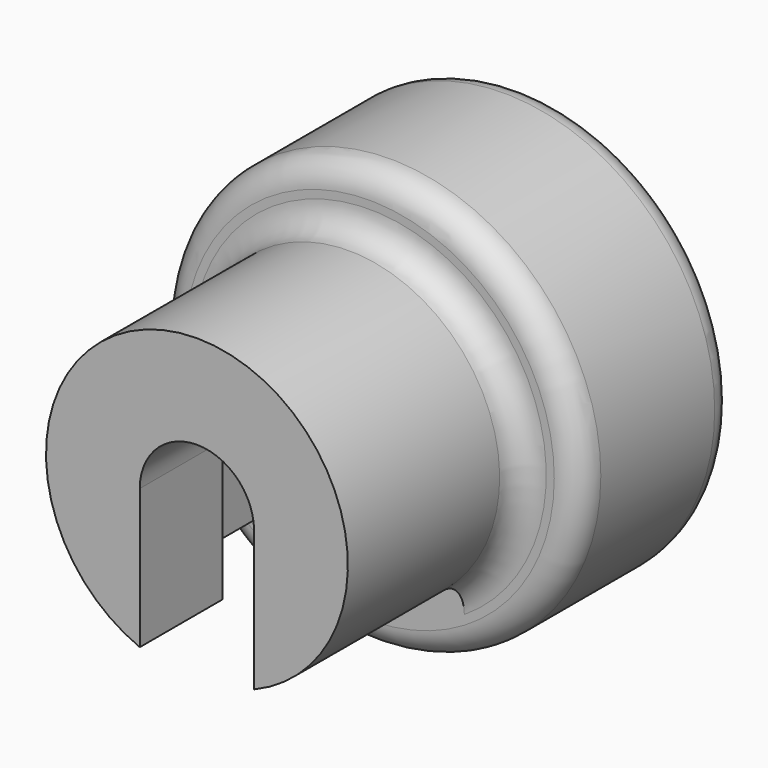
from build123d import *

# Parameters (mm, degrees)
SKETCH067_W     = 20
SKETCH067_H     = 20
PAD025_DEPTH    = 9
SKETCH061_R     = 7
PAD024_DEPTH    = 10
POCKET040_DEPTH = 8
SKETCH063_W     = 8.75
SKETCH063_H     = 5.2
POCKET036_DEPTH = 1
SKETCH060_R     = 3.7
POCKET035_DEPTH = 3
SKETCH059_R     = 1.675
POCKET039_DEPTH = 5
SKETCH068_R     = 16.754851
SKETCH068_R_2   = 9.771783
POCKET041_DEPTH = 20
SKETCH062_R     = 1.7
POCKET042_DEPTH = 20
FILLET008_R     = 1.2
POCKET043_DEPTH = 5.2


with BuildPart() as part:
    # Sketch067 → Pad025 (new body)
    with BuildSketch(Plane.XZ):
        with Locations((-19.773271, -18.660706)):
            Rectangle(SKETCH067_W, SKETCH067_H)
    extrude(amount=PAD025_DEPTH)

    # Sketch061 (on Face6 of Pad025) → Pad024 (join)
    with BuildSketch(Plane.XZ.offset(9)):
        with Locations((-19.773271, -18.660706)):
            Circle(SKETCH061_R)
    extrude(amount=PAD024_DEPTH)

    # Sketch065 (on Face8 of Pad024) → Pocket040 (cut)
    with BuildSketch(Plane.XZ.offset(19)):
        with BuildLine():
            Line((-17.123271, -18.660706), (-17.123271, -31.745383))
            Line((-17.123271, -31.745383), (-22.423271, -31.745383))
            Line((-22.423271, -31.745383), (-22.423271, -18.660706))
            ThreePointArc((-17.123271, -18.660706), (-19.773271, -16.010706), (-22.423271, -18.660706))
        make_face()
    extrude(amount=-POCKET040_DEPTH, mode=Mode.SUBTRACT)

    # Sketch063 (on Face6 of Pocket040) → Pocket036 (cut)
    with BuildSketch(Plane(origin=(0, 0, -28.660706), x_dir=(1, 0, 0), z_dir=(0, 0, -1))):
        with Locations((-19.773271, 11.6)):
            Rectangle(SKETCH063_W, SKETCH063_H)
    extrude(amount=-POCKET036_DEPTH, mode=Mode.SUBTRACT)

    # Sketch060 (on Face4 of Pocket036) → Pocket035 (cut)
    with BuildSketch(Plane(origin=(0, 0, 0), x_dir=(1, 0, 0), z_dir=(0, 1, 0))):
        with Locations((-19.773271, 18.660706)):
            Circle(SKETCH060_R)
    extrude(amount=-POCKET035_DEPTH, mode=Mode.SUBTRACT)

    # Sketch059 (on Face11 of Pocket035) → Pocket039 (cut)
    with BuildSketch(Plane.XZ.offset(19)):
        with Locations((-19.773271, -18.660706)):
            Circle(SKETCH059_R)
    extrude(amount=-POCKET039_DEPTH, mode=Mode.SUBTRACT)

    # Sketch068 (on Face4 of Pocket039) → Pocket041 (cut)
    with BuildSketch(Plane(origin=(0, 0, 0), x_dir=(1, 0, 0), z_dir=(0, 1, 0))):
        with Locations((-19.773271, 18.660706)):
            Circle(SKETCH068_R)
        with Locations((-19.773271, 18.660706)):
            Circle(SKETCH068_R_2, mode=Mode.SUBTRACT)
    extrude(amount=-POCKET041_DEPTH, mode=Mode.SUBTRACT)

    # Sketch062 → Pocket042 (cut)
    with BuildSketch(Plane(origin=(0, -3, 0), x_dir=(1, 0, 0), z_dir=(0, 1, 0))):
        with Locations((-19.773271, 18.660706)):
            Circle(SKETCH062_R)
    extrude(amount=-POCKET042_DEPTH, mode=Mode.SUBTRACT)

    # Fillet008
    fillet008_edges = [part.edges().sort_by_distance(p)[0] for p in [
        (-19.773271, -9, -27.660706),
        (-25.172051, -9, -10.515712),
        (-11.628277, -9, -24.059485),
        (-26.773271, -9, -18.660706),
        (-29.545054, 0, -18.660706),
        (-23.473271, 0, -18.660706),
    ]]
    fillet(fillet008_edges, radius=FILLET008_R)

    # Sketch064 → Pocket043 (cut)
    with BuildSketch(Plane.XZ.offset(14.2)):
        with BuildLine():
            ThreePointArc((-15.373271, -18.660706), (-19.773271, -14.260706), (-24.173271, -18.660706))
            Line((-24.173271, -18.660706), (-24.173271, -31.35503))
            Line((-24.173271, -31.35503), (-15.373271, -31.35503))
            Line((-15.373271, -18.660706), (-15.373271, -31.35503))
        make_face()
    extrude(amount=-POCKET043_DEPTH, mode=Mode.SUBTRACT)


solid = part.part
